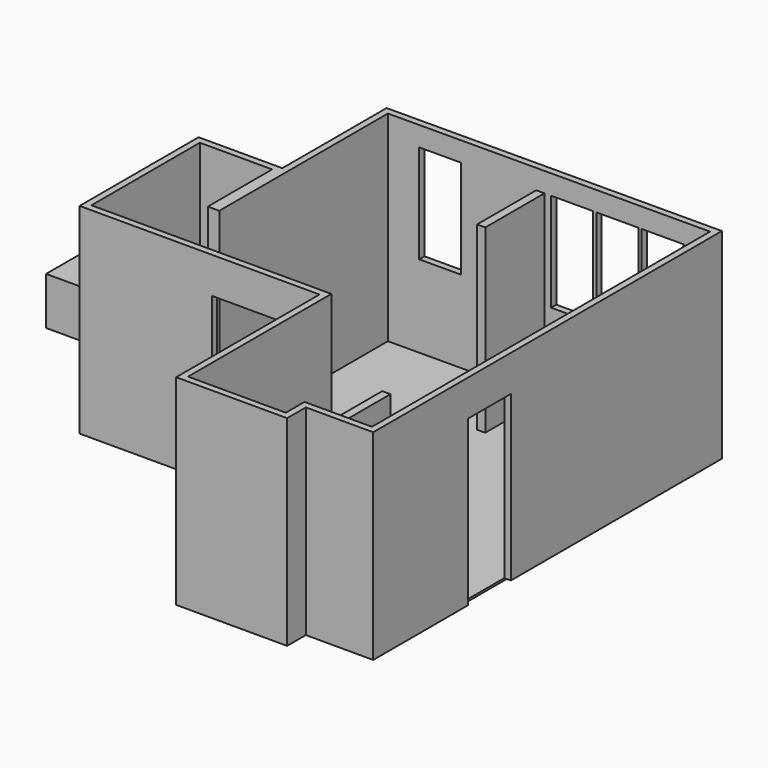
from build123d import *

# Parameters (mm, degrees)
F1_DEPTH  = 25
F2_DEPTH  = 2440
F3_W      = 840
F3_H      = 2000
F4_DEPTH  = 80
F5_W      = 100
F5_H      = 900
F6_DEPTH  = 2200
F7_W      = 100
F7_H      = 900
F8_DEPTH  = 1000
F9_W      = 510
F9_H      = 1200
F10_DEPTH = 79.9999997254
F11_W     = 490
F11_H     = 600
F12_DEPTH = 580
F13_W     = 650
F13_H     = 2000
F14_DEPTH = 80


with BuildPart() as f1:
    # F0 (on Top) → F1 (new body)
    with BuildSketch(Plane.XY):
        Polygon((-1444.999707, 134.855174), (-1584.999679, 134.855174), (-1584.999679, 1114.85484), (-2464.999501, 1114.85484), (-2464.999501, -535.144826), (454.999908, -535.144826), (454.999908, -2715.144385), (1644.999502, -2715.144385), (1644.999502, -2430.144385), (2464.999502, -2430.144385), (2464.999502, 2714.854517), (-1444.999707, 2700.712775), align=None)
    extrude(amount=-F1_DEPTH)



with BuildPart() as f2:
    # F0 (on Top) → F2 (new body)
    with BuildSketch(Plane.XY):
        Polygon((-1524.999707, 2780.423953), (-1524.999707, 1194.85484), (-2544.999501, 1194.85484), (-2544.999501, -615.144826), (374.999908, -615.144826), (374.999908, -2795.144385), (1724.999502, -2795.144385), (1724.999502, -2510.144385), (2544.999502, -2510.144385), (2544.999502, 2795.144385), align=None)
        Polygon((-1584.999679, 1114.85484), (-1584.999679, 134.855174), (-1444.999707, 134.855174), (-1444.999707, 2700.712775), (2464.999502, 2714.854517), (2464.999502, -2430.144385), (1644.999502, -2430.144385), (1644.999502, -2715.144385), (454.999908, -2715.144385), (454.999908, -535.144826), (-2464.999501, -535.144826), (-2464.999501, 1114.85484), align=None, mode=Mode.SUBTRACT)
    extrude(amount=F2_DEPTH)

    # F3 (on face) → F4 (cut, through all)
    with BuildSketch(Plane.XZ.offset(615.144826)):
        with Locations((-515.000092, 1000)):
            Rectangle(F3_W, F3_H)
    extrude(amount=-F4_DEPTH, mode=Mode.SUBTRACT)


with BuildPart() as f1_1:
    add(f1.part)

    add(f2.part)  # F6 merges F2
    # F5 (on face) → F6 (join)
    with BuildSketch(Plane.XY):
        with Locations((405.000293, 2257.2230411764)):
            Rectangle(F5_W, F5_H)
    extrude(amount=F6_DEPTH)

    # F9 (on face) → F10 (cut, through all)
    with BuildSketch(Plane(origin=(-9.7867517589, 2705.903674088, 0), x_dir=(0.9999934594, 0.0036167909, 0), z_dir=(0.0036167909, -0.9999934594, 0))):
        with Locations((799.8024404753, 1600)):
            Rectangle(F9_W, F9_H)
        with Locations((-800.2223424701, 1600)):
            Rectangle(F9_W, F9_H)
        with Locations((1899.8024404753, 1600)):
            Rectangle(F9_W, F9_H)
        with Locations((1349.8024404753, 1600)):
            Rectangle(F9_W, F9_H)
    extrude(amount=-F10_DEPTH, mode=Mode.SUBTRACT)

    # F13 (on face) → F14 (cut, through all)
    with BuildSketch(Plane(origin=(2464.999502, 0, 0), x_dir=(0, -1, 0), z_dir=(-1, 0, 0))):
        with Locations((740.145483, 1000)):
            Rectangle(F13_W, F13_H)
    extrude(amount=-F14_DEPTH, mode=Mode.SUBTRACT)


with BuildPart() as f8:
    # F7 (on face) → F8 (new body)
    with BuildSketch(Plane.XY):
        with Locations((404.999908, -85.144826)):
            Rectangle(F7_W, F7_H)
    extrude(amount=F8_DEPTH)


with BuildPart() as f12:
    # F11 (on face) → F12 (new body)
    with BuildSketch(Plane.XY):
        with Locations((-3906.4578610846, 1182.9909682274)):
            Rectangle(F11_W, F11_H)
    extrude(amount=F12_DEPTH)


solid = Compound([f1_1.part, f8.part, f12.part])
